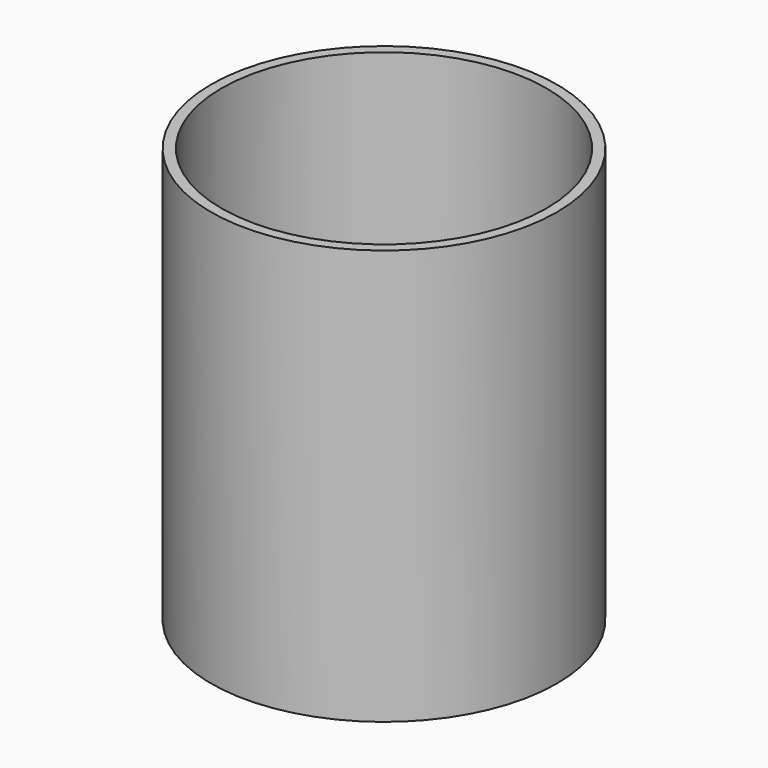
from build123d import *

# Parameters (mm, degrees)
SKETCH_R   = 50
SKETCH_R_2 = 47
PAD_DEPTH  = 120


with BuildPart() as part:
    # Sketch → Pad (new body)
    with BuildSketch(Plane.XY):
        Circle(SKETCH_R)
        Circle(SKETCH_R_2, mode=Mode.SUBTRACT)
    extrude(amount=PAD_DEPTH)


solid = part.part
